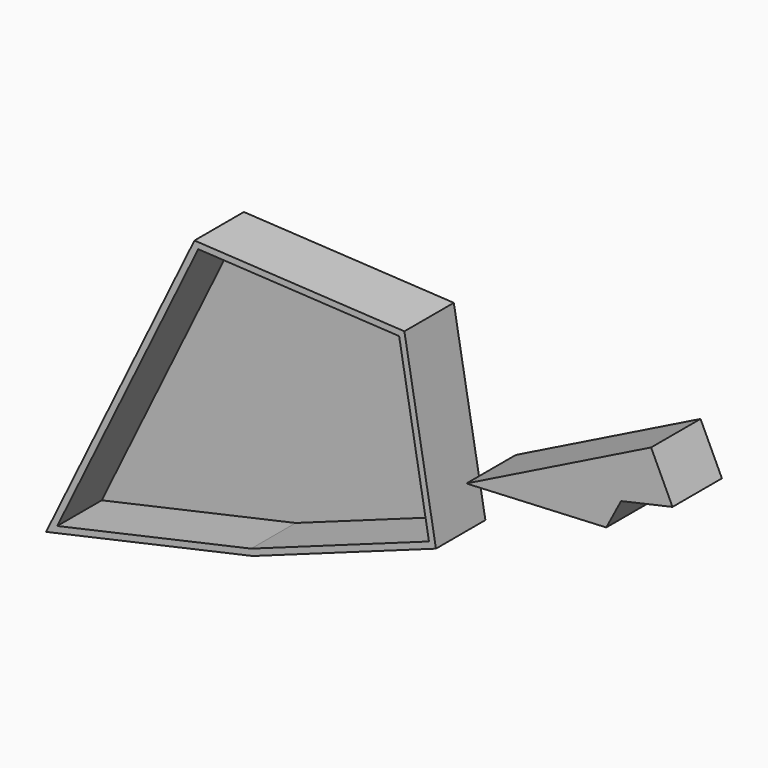
from build123d import *

# Parameters (mm, degrees)
F1_DEPTH = 25.4
F2_T     = -2.54


with BuildPart() as f1:
    # F0 (on Front) → F1 (new body)
    with BuildSketch(Plane.XZ):
        Polygon((27.2534992546, 39.8514419794), (-59.049256146, 44.653788209), (-120.0451850891, -80.6277096272), (-35.0402183831, -61.7274530232), align=None)
        Polygon((40.2313619852, -34.5815382898), (27.2534992546, 39.8514419794), (-35.0402183831, -61.7274530232), align=None)
    extrude(amount=F1_DEPTH)

    # F2
    f2_openings = [f1.faces().sort_by_distance(p)[0] for p in [
        (-33.259144, -25.4, -14.378218),
    ]]
    offset(amount=F2_T, openings=f2_openings)


with BuildPart() as f1b:
    # F0 (on Front) → F1, piece 2 (new body)
    with BuildSketch(Plane.XZ):
        Polygon((128.6721378565, 30.8055691421), (52.7335224494, -6.9245833926), (116.3219529464, 7.3855059196), align=None)
        Polygon((116.3219529464, 7.3855059196), (52.7335224494, -6.9245833926), (110.2405264974, -4.1469037533), align=None)
        Polygon((128.6721378565, 30.8055691421), (116.3219529464, 7.3855059196), (137.4690681696, 12.1445022523), align=None)
    extrude(amount=F1_DEPTH)


solid = Compound([f1.part, f1b.part])
